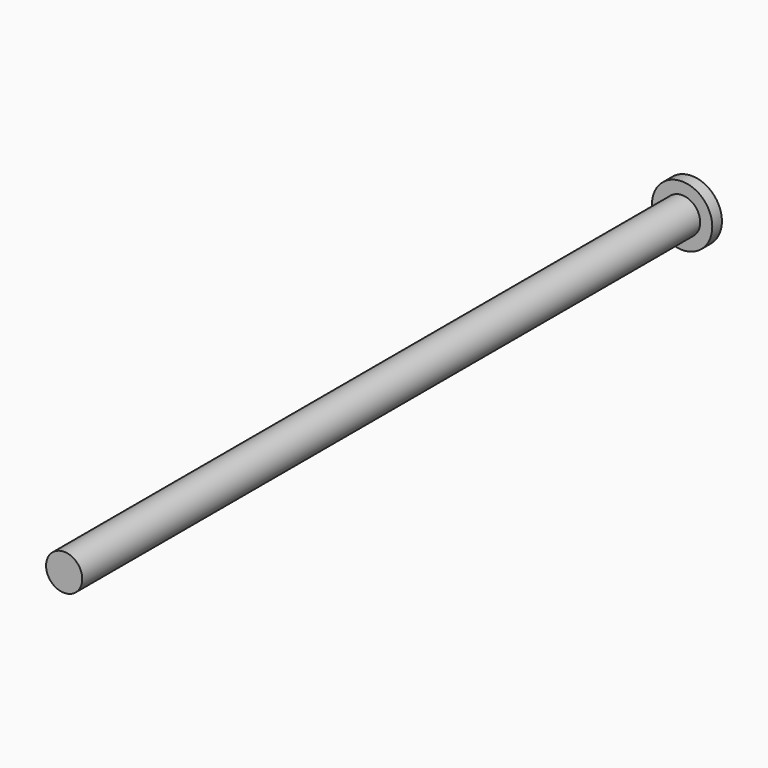
from build123d import *

# Parameters (mm, degrees)
F0_R     = 2.5
F0_R_2   = 1.5
F1_DEPTH = 1
F2_DEPTH = 64
F3_DEPTH = 1


with BuildPart() as f1:
    # F0 (on Front) → F1 (new body)
    with BuildSketch(Plane.XZ):
        Circle(F0_R)
        Circle(F0_R_2, mode=Mode.SUBTRACT)
        Circle(F0_R_2)
    extrude(amount=F1_DEPTH)

    # F0 (on Front) → F2 (join)
    with BuildSketch(Plane.XZ):
        Circle(F0_R_2)
    extrude(amount=F2_DEPTH)

    # F3 (add): a face of the model
    f3_faces = [f1.faces().sort_by_distance(p)[0] for p in [
        (0, -64, 0),
    ]]
    extrude(f3_faces, amount=F3_DEPTH)


solid = f1.part
